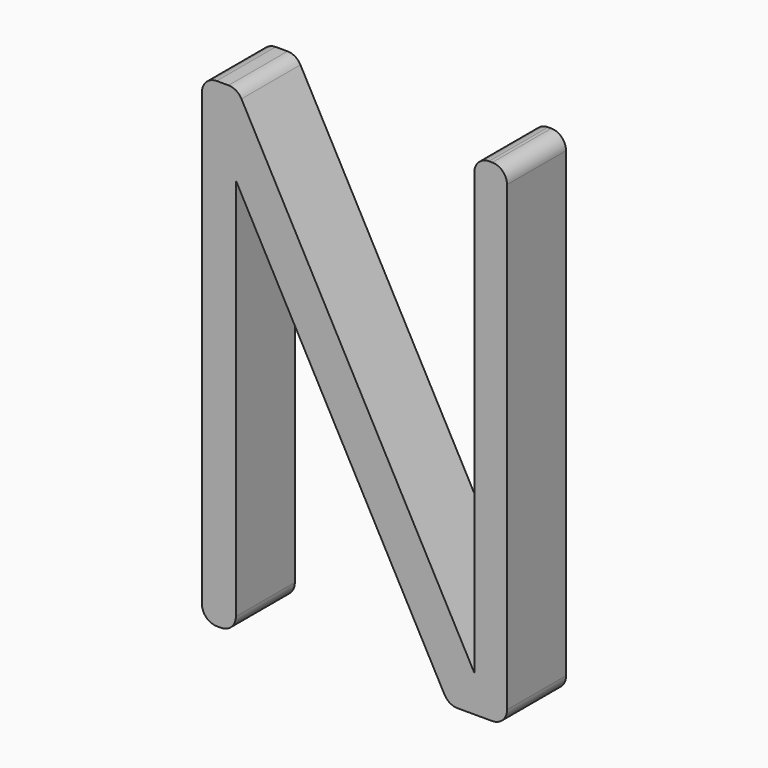
from build123d import *

# Parameters (mm, degrees)
F1_DEPTH = 6.35
F2_R     = 2.54


with BuildPart() as f1:
    # F0 (on Front) → F1 (new body, symmetric)
    with BuildSketch(Plane.XZ):
        Polygon((-8.977415, 45.314699), (-15.062025, 45.314699), (-15.062025, -37.343994), (-9.223152, -37.343994), (-9.223152, 31.330701), (27.435317, -36.294828), (37.48342, -36.294828), (37.48342, 48.394047), (31.835622, 48.394047), (31.835622, -29.974949), align=None)
    extrude(amount=F1_DEPTH, both=True)

    # F2
    f2_edges = [f1.edges().sort_by_distance(p)[0] for p in [
        (-15.062025, 0, -37.343994),
        (37.48342, 0, 48.394047),
        (-15.062025, 0, 45.314699),
        (31.835622, 0, 48.394047),
        (-9.223152, 0, -37.343994),
        (37.48342, 0, -36.294828),
        (27.435317, 0, -36.294828),
        (-8.977415, 0, 45.314699),
    ]]
    fillet(f2_edges, radius=F2_R)


solid = f1.part
